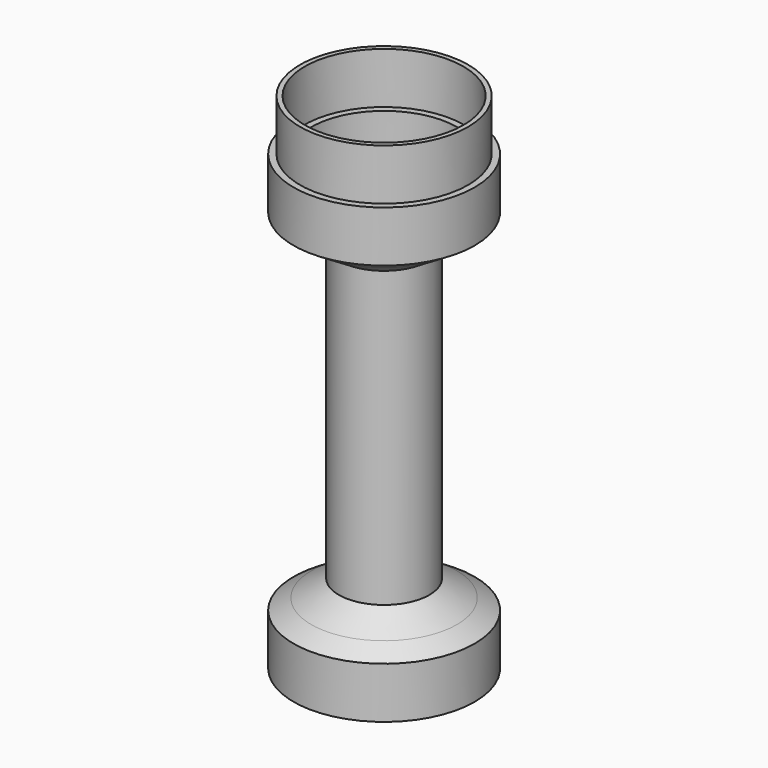
from build123d import *

# Parameters (mm, degrees)
F0_W   = 1.5
F0_H   = 13
F0_W_2 = 1.2


with BuildPart() as f1:
    # F0 (on Front) → F1 (revolve)
    with BuildSketch(Plane.XZ):
        with Locations((22.25, -6.5)):
            Rectangle(F0_W, F0_H)
        Polygon((20, -3.4330878437), (18.5, -2.4991625869), (18.5, -13), (20, -13), align=None)
        Polygon((18.5, 2.8017757703), (18.5, 0), (20, 0), (21.5, 0), (23, 0), align=None)
        Polygon((18.5, 91.4991625869), (18.5, 86.1982242297), (23, 89), (23, 102), (21.35, 102), (20.15, 102), (18.5, 102), align=None)
        with Locations((20.75, 108.5)):
            Rectangle(F0_W_2, F0_H)
        Polygon((7, 84.3390689516), (7, 44.5), (11.5, 44.5), (11.5, 81.8399063647), (18.5, 86.1982242297), (18.5, 91.4991625869), align=None)
        Polygon((14.4860343715, 0), (18.5, 0), (18.5, 2.8017757703), (11.5, 7.1600936353), (11.5, 44.5), (7, 44.5), (7, 4.6609310484), align=None)
        Polygon((18.5, -2.4991625869), (18.5, 0), (14.4860343715, 0), align=None)
        Polygon((20, 0), (18.5, 0), (18.5, -2.4991625869), (20, -3.4330878437), align=None)
    revolve(axis=Axis((0, 0, 51), (0, 0, 1)))


solid = f1.part
